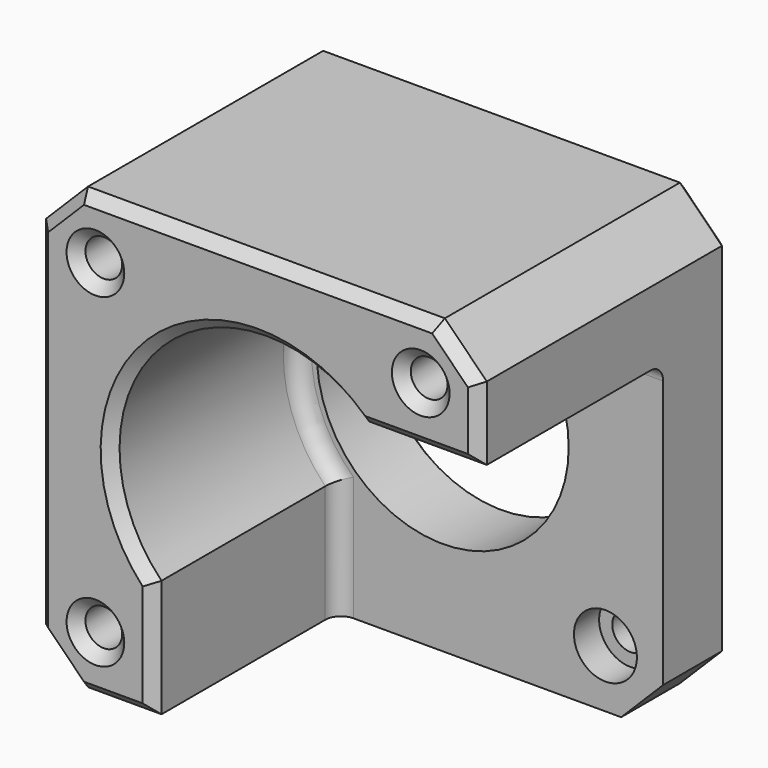
from build123d import *

# Parameters (mm, degrees)
SKETCH_W        = 42
SKETCH_H        = 42
SKETCH_R        = 1.75
PAD_DEPTH       = 8
SKETCH001_R     = 12
POCKET_DEPTH    = 8.001
SKETCH003_R     = 1.75
PAD001_DEPTH    = 22
SKETCH004_R     = 3
POCKET001_DEPTH = 3
CHAMFER_SIZE    = 4
CHAMFER001_SIZE = 1
CHAMFER002_SIZE = 1
FILLET_R        = 1.5


with BuildPart() as part:
    # Sketch → Pad (new body)
    with BuildSketch(Plane.XZ):
        Rectangle(SKETCH_W, SKETCH_H)
        with Locations((-15.5, -15.5)):
            Circle(SKETCH_R, mode=Mode.SUBTRACT)
        with Locations((15.5, -15.5)):
            Circle(SKETCH_R, mode=Mode.SUBTRACT)
        with Locations((-15.5, 15.5)):
            Circle(SKETCH_R, mode=Mode.SUBTRACT)
        with Locations((15.5, 15.5)):
            Circle(SKETCH_R, mode=Mode.SUBTRACT)
    extrude(amount=PAD_DEPTH)

    # Sketch001 (on Face9 of Pad) → Pocket (cut, through all)
    with BuildSketch(Plane(origin=(0, 0, 0), x_dir=(1, 0, 0), z_dir=(0, 1, 0))):
        Circle(SKETCH001_R)
    extrude(amount=-POCKET_DEPTH, mode=Mode.SUBTRACT)

    # Sketch003 → Pad001 (join)
    with BuildSketch(Plane.XZ.offset(8)):
        with BuildLine():
            Line((-21, -21), (-21, 21))
            Line((-21, 21), (21, 21))
            Line((21, 21), (21, 10))
            Line((21, 10), (9.797959, 10))
            ThreePointArc((9.797959, 10), (-9.899495, 9.899495), (-10, -9.797959))
            Line((-10, -9.797959), (-10, -21))
            Line((-10, -21), (-21, -21))
        make_face()
        with Locations((-15.5, 15.5)):
            Circle(SKETCH003_R, mode=Mode.SUBTRACT)
        with Locations((-15.5, -15.5)):
            Circle(SKETCH003_R, mode=Mode.SUBTRACT)
        with Locations((15.5, 15.5)):
            Circle(SKETCH003_R, mode=Mode.SUBTRACT)
    extrude(amount=PAD001_DEPTH)

    # Sketch004 (on Face9 of Pad001) → Pocket001 (cut)
    with BuildSketch(Plane.XZ.offset(8)):
        with Locations((15.5, -15.5)):
            Circle(SKETCH004_R)
    extrude(amount=-POCKET001_DEPTH, mode=Mode.SUBTRACT)

    # Chamfer
    chamfer_edges = [part.edges().sort_by_distance(p)[0] for p in [
        (21, -4, -21),
        (21, -4, 21),
        (-21, -4, 21),
        (-21, -4, -21),
    ]]
    chamfer(chamfer_edges, length=CHAMFER_SIZE)

    # Chamfer001
    chamfer001_edges = [part.edges().sort_by_distance(p)[0] for p in [
        (0, 0, 21),
        (-19, 0, 19),
        (19, 0, 19),
        (-21, 0, 0),
        (21, 0, 0),
        (-19, 0, -19),
        (19, 0, -19),
        (0, 0, -21),
        (13.75, 0, -15.5),
        (-12, 0, 0),
        (-17.25, 0, -15.5),
        (-17.25, 0, 15.5),
        (13.75, 0, 15.5),
    ]]
    chamfer(chamfer001_edges, length=CHAMFER001_SIZE)

    # Chamfer002
    chamfer002_edges = [part.edges().sort_by_distance(p)[0] for p in [
        (-21, -30, 0),
        (-19, -30, -19),
        (-19, -30, 19),
        (-13.5, -30, -21),
        (0, -30, 21),
        (-10, -30, -15.398979),
        (19, -30, 19),
        (-9.899495, -30, 9.899495),
        (21, -30, 13.5),
        (15.398979, -30, 10),
        (13.75, -30, 15.5),
        (-17.25, -30, -15.5),
        (-17.25, -30, 15.5),
    ]]
    chamfer(chamfer002_edges, length=CHAMFER002_SIZE)

    # Fillet
    fillet_edges = [part.edges().sort_by_distance(p)[0] for p in [
        (-9.899495, -8, 9.899495),
        (15.398979, -8, 10),
        (-10, -8, -15.398979),
    ]]
    fillet(fillet_edges, radius=FILLET_R)


solid = part.part
